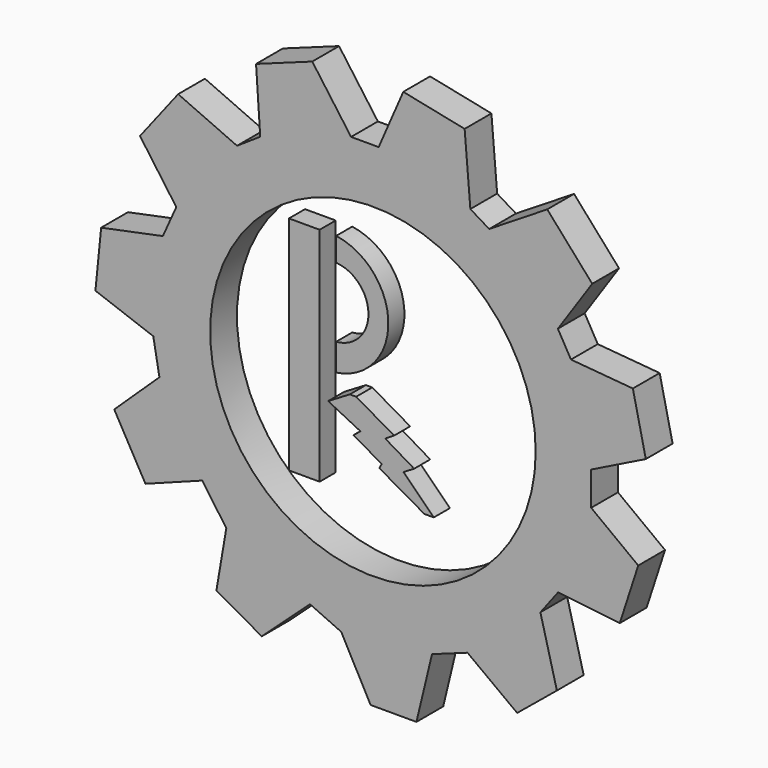
from build123d import *

# Parameters (mm, degrees)
F0_R     = 24.296398
F1_DEPTH = 5
F2_W     = 4.579046
F2_H     = 33.110009
F3_DEPTH = 3


with BuildPart() as f1:
    # F0 (on Front) → F1 (new body)
    with BuildSketch(Plane.XZ):
        Polygon((-21.14838, 26.323738), (-29.934952, 30.249903), (-35.630815, 22.900404), (-30.211184, 15.319884), (-32.214459, 10.855438), (-41.429535, 8.966634), (-42.287167, 0.402736), (-33.645373, -2.766845), (-32.729588, -7.860892), (-39.47499, -14.279386), (-34.816023, -22.538465), (-26.345173, -19.361898), (-22.745062, -24.444407), (-24.227461, -33.127032), (-17.450778, -36.938913), (-10.250556, -30.374004), (-5.591589, -32.491714), (-1.208207, -40.676225), (5.63229, -40.676225), (7.961773, -31.009316), (13.256056, -29.103374), (20.668052, -34.609426), (26.597647, -29.738687), (24.135647, -20.256046), (26.781514, -16.763503), (35.989132, -17.82185), (38.740832, -9.355075), (31.713955, -4.057546), (31.713955, 0.968666), (39.870754, 4.997043), (37.938636, 13.644502), (28.699368, 14.439846), (26.74577, 17.858645), (31.873964, 25.428843), (25.158465, 33.02459), (16.489372, 27.626641), (13.681075, 29.336039), (12.826375, 39.592434), (3.668877, 41.481696), (0, 33.02459), (-4.121156, 33.02459), (-9.917671, 41.042086), (-18.306147, 38.002782), (-17.683024, 28.633976), align=None)
        with Locations((-0.860665, 0.642398)):
            Circle(F0_R, mode=Mode.SUBTRACT)
    extrude(amount=F1_DEPTH)


with BuildPart() as f3:
    # F2 (on Front) → F3 (new body)
    with BuildSketch(Plane.XZ):
        with Locations((-12.706269, 1.40938)):
            Rectangle(F2_W, F2_H)
        with BuildLine():
            Line((-7.951108, 4.051136), (-7.951108, 0))
            ThreePointArc((-7.951108, 0), (-0.158552, 8.982192), (-7.951108, 17.964384))
            Line((-7.951108, 17.964384), (-7.951108, 14.442042))
            ThreePointArc((-7.951108, 14.442042), (-3.127976, 9.246589), (-7.951108, 4.051136))
        make_face()
        Polygon((-5.911023, -2.201777), (-9.146241, -4.135875), (-4.327225, -6.537112), (-5.373379, -7.384726), (-1.138704, -9.797506), (-1.516471, -10.460525), (5.217357, -14.297241), (6.626763, -14.297241), (2.106691, -9.797506), (3.689135, -8.84804), (-0.636211, -6.280965), (0.700074, -5.47216), (-4.961557, -2.201777), align=None)
    extrude(amount=F3_DEPTH)


solid = Compound([f1.part, f3.part])
